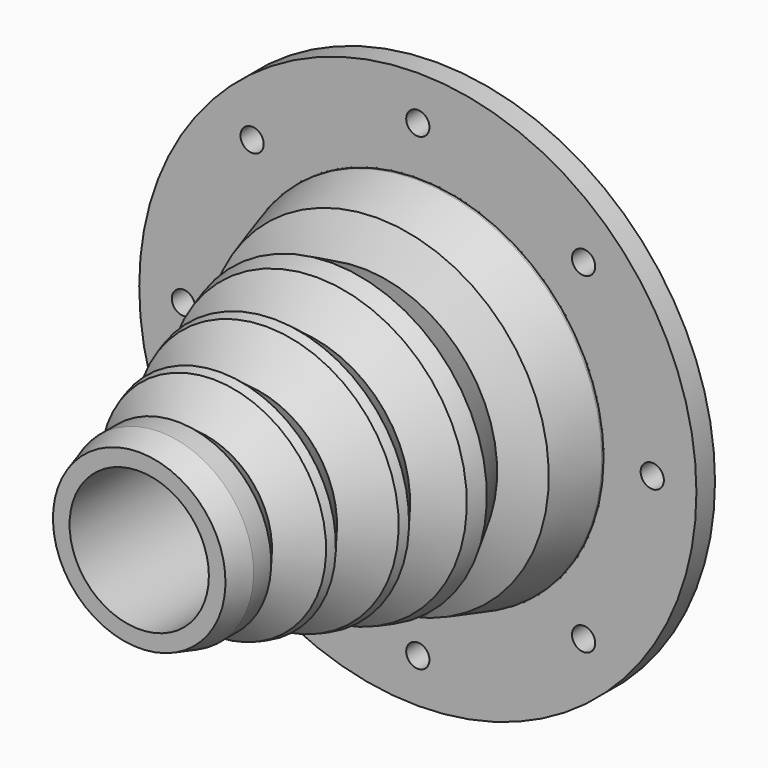
from build123d import *

# Parameters (mm, degrees)
F0_R     = 50.8
F0_R_2   = 19.05
F1_DEPTH = 101.6
F0_R_3   = 76.2
F2_DEPTH = 6.35
F7_R     = 3.175
F8_DEPTH = 25.4


with BuildPart() as f1:
    # F0 (on Front) → F1 (new body)
    with BuildSketch(Plane.XZ):
        Circle(F0_R)
        Circle(F0_R_2, mode=Mode.SUBTRACT)
    extrude(amount=F1_DEPTH)

    # F0 (on Front) → F2 (join)
    with BuildSketch(Plane.XZ):
        Circle(F0_R_3)
        Circle(F0_R, mode=Mode.SUBTRACT)
    extrude(amount=F2_DEPTH)

    # F3 (on Right) → F4 (revolve, cut)
    with BuildSketch(Plane.YZ):
        Polygon((-109.346762, 21.367406), (-6.33552, 50.977927), (-107.67857, 54.314323), align=None)
    revolve(axis=Axis((0, -101.6, 0), (0, -1, 0)), mode=Mode.SUBTRACT)

    # F5 (on Top) → F6 (revolve, cut)
    with BuildSketch(Plane.XY):
        Polygon((-55.385999, -52.059986), (-25.6285, -95.704317), (-25.6285, -88.51292), (-21.660833, -83.305359), (-32.501825, -75.045552), (-25.6285, -66.024315), (-37.851702, -56.711396), (-31.398905, -48.242103), (-43.97326, -38.661638), (-37.03554, -25.526214), (-49.323034, -19.036344), (-52.410249, -6.6798), align=None)
    revolve(axis=Axis((0, -101.6, 0), (0, 1, 0)), mode=Mode.SUBTRACT)

    # F7 (on face) → F8 (cut)
    with BuildSketch(Plane.XZ.offset(6.35)):
        with Locations((0, 64.114898)):
            Circle(F7_R)
        with Locations((45.336079, 45.336079)):
            Circle(F7_R)
        with Locations((-45.336079, 45.336079)):
            Circle(F7_R)
        with Locations((-64.114898, 0)):
            Circle(F7_R)
        with Locations((64.114898, 0)):
            Circle(F7_R)
        with Locations((45.336079, -45.336079)):
            Circle(F7_R)
        with Locations((0, -64.114898)):
            Circle(F7_R)
        with Locations((-45.336079, -45.336079)):
            Circle(F7_R)
    extrude(amount=-F8_DEPTH, mode=Mode.SUBTRACT)


solid = f1.part
